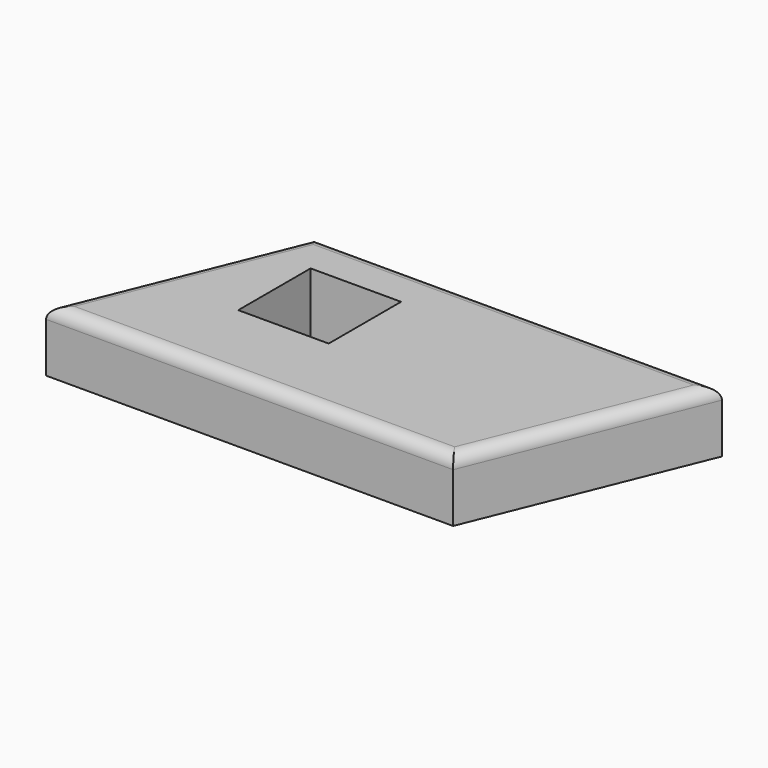
from build123d import *

# Parameters (mm, degrees)
F0_W     = 51.1
F0_H     = 35.991466
F0_W_2   = 14.6
F0_H_2   = 14.6
F1_DEPTH = 10
F2_R     = 2


with BuildPart() as f1:
    # F0 (on Top) → F1 (new body)
    with BuildSketch(Plane.XY):
        Polygon((-23.721203, -12.867412), (-23.721203, 23.124054), (-38.321203, -12.867412), align=None)
        with Locations((1.828797, 5.128321)):
            Rectangle(F0_W, F0_H)
        with Locations((-11.273708, 8.524054)):
            Rectangle(F0_W_2, F0_H_2, mode=Mode.SUBTRACT)
        Polygon((41.978797, 23.124054), (27.378797, 23.124054), (27.378797, -12.867412), align=None)
    extrude(amount=F1_DEPTH)

    # F2
    f2_edges = [f1.edges().sort_by_distance(p)[0] for p in [
        (-5.471203, -12.867412, 10),
        (-31.021203, 5.128321, 10),
        (9.128797, 23.124054, 10),
        (34.678797, 5.128321, 10),
    ]]
    fillet(f2_edges, radius=F2_R)


solid = f1.part
